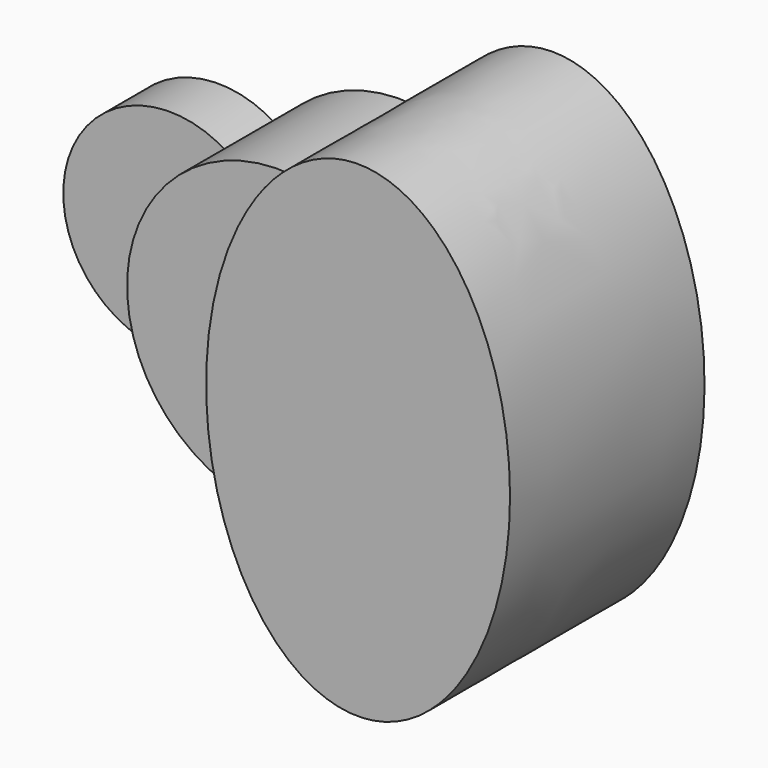
from build123d import *

# Parameters (mm, degrees)
F1_DEPTH = 25.4
F2_DEPTH = 63.5
F3_DEPTH = 101.6


with BuildPart() as f1:
    # F0 (on Front) → F1 (new body)
    with BuildSketch(Plane.XZ):
        with BuildLine():
            ThreePointArc((-51.59375, -37.0180356169), (-60.4501990278, -19.4428248333), (-63.5, 0))
            ThreePointArc((-63.5, 0), (-60.4501990278, 19.4428248333), (-51.59375, 37.0180356169))
            ThreePointArc((-51.59375, 37.0180356169), (-120.65, 0), (-51.59375, -37.0180356169))
        make_face()
    extrude(amount=F1_DEPTH)

    # F0 (on Front) → F2 (join)
    with BuildSketch(Plane.XZ):
        with BuildLine():
            Line((-63.5, 0), (-31.75, 0))
            ThreePointArc((-31.75, 0), (-37.0237934934, 21.0006510316), (-51.59375, 37.0180356169))
            ThreePointArc((-51.59375, 37.0180356169), (-60.4501990278, 19.4428248333), (-63.5, 0))
        make_face()
        with BuildLine():
            ThreePointArc((-51.59375, -37.0180356169), (-37.0237934934, -21.0006510316), (-31.75, 0))
            Line((-31.75, 0), (-63.5, 0))
            ThreePointArc((-63.5, 0), (-60.4501990278, -19.4428248333), (-51.59375, -37.0180356169))
        make_face()
        with BuildLine():
            Line((-31.75, 0), (0, 0))
            add(Edge.make_bspline(
                [(13.2439655959, 62.1035214404), (0, 34.6669399309), (0, 0)],
                knots=[4.0547434617, 4.0547434617, 4.0547434617, 4.7123889804, 4.7123889804, 4.7123889804], degree=2, weights=[1, 0.9464231645, 1]))
            ThreePointArc((13.2439655959, 62.1035214404), (-22.9128106244, 59.2220660674), (-51.59375, 37.0180356169))
            ThreePointArc((-51.59375, 37.0180356169), (-37.0237934934, 21.0006510316), (-31.75, 0))
        make_face()
        with BuildLine():
            add(Edge.make_bspline(
                [(0, 0), (0, -34.6669399309), (13.2439655959, -62.1035214404)],
                knots=[4.7123889804, 4.7123889804, 4.7123889804, 5.370034499, 5.370034499, 5.370034499], degree=2, weights=[1, 0.9464231645, 1]))
            Line((0, 0), (-31.75, 0))
            ThreePointArc((-31.75, 0), (-37.0237934934, -21.0006510316), (-51.59375, -37.0180356169))
            ThreePointArc((-51.59375, -37.0180356169), (-22.9128106244, -59.2220660674), (13.2439655959, -62.1035214404))
        make_face()
    extrude(amount=F2_DEPTH)

    # F0 (on Front) → F3 (join)
    with BuildSketch(Plane.XZ):
        with BuildLine():
            add(Edge.make_bspline(
                [(13.2439655959, 62.1035214404), (0, 34.6669399309), (0, 0)],
                knots=[4.0547434617, 4.0547434617, 4.0547434617, 4.7123889804, 4.7123889804, 4.7123889804], degree=2, weights=[1, 0.9464231645, 1]))
            add(Edge.make_bspline(
                [(0, 0), (0, -34.6669399309), (13.2439655959, -62.1035214404)],
                knots=[4.7123889804, 4.7123889804, 4.7123889804, 5.370034499, 5.370034499, 5.370034499], degree=2, weights=[1, 0.9464231645, 1]))
            ThreePointArc((13.2439655959, -62.1035214404), (49.3621404284, -39.9453262889), (63.5, 0))
            ThreePointArc((63.5, 0), (49.3621404284, 39.9453262889), (13.2439655959, 62.1035214404))
        make_face()
        with BuildLine():
            ThreePointArc((63.5, 0), (49.3621404284, -39.9453262889), (13.2439655959, -62.1035214404))
            add(Edge.make_bspline(
                [(13.2439655959, -62.1035214404), (75.5537087854, -191.1861844445), (120.4955415237, -44.7930922222), (165.437374262, 101.6), (63.5, 101.6)],
                knots=[5.370034499, 5.370034499, 5.370034499, 7.3974062299, 7.3974062299, 9.4247779608, 9.4247779608, 9.4247779608], degree=2, weights=[1, 0.5287358074, 1, 0.5287358074, 1]))
            Line((63.5, 101.6), (63.5, 0))
        make_face()
        with BuildLine():
            add(Edge.make_bspline(
                [(63.5, 101.6), (32.3093875408, 101.6), (13.2439655959, 62.1035214404)],
                knots=[3.1415926536, 3.1415926536, 3.1415926536, 4.0547434617, 4.0547434617, 4.0547434617], degree=2, weights=[1, 0.8975675831, 1]))
            ThreePointArc((13.2439655959, 62.1035214404), (49.3621404284, 39.9453262889), (63.5, 0))
            Line((63.5, 0), (63.5, 101.6))
        make_face()
    extrude(amount=F3_DEPTH)


solid = f1.part
